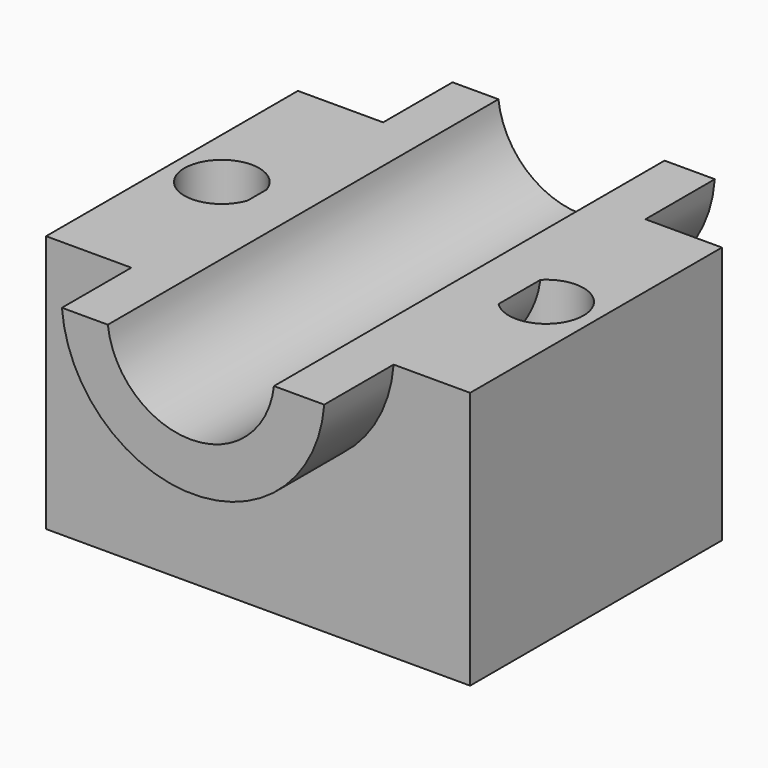
from build123d import *

# Parameters (mm, degrees)
F0_W     = 86.4731967449
F0_H     = 64.1862973571
F1_DEPTH = 52.578
F2_R     = 7.62
F3_DEPTH = 180.34
F5_DEPTH = 49.784
F7_DEPTH = 69.342


with BuildPart() as f1:
    # F0 (on Top) → F1 (new body)
    with BuildSketch(Plane.XY):
        Rectangle(F0_W, F0_H)
    extrude(amount=F1_DEPTH)

    # F2 (on Top) → F3 (cut)
    with BuildSketch(Plane.XY):
        with Locations((33.0765983725, 0)):
            Circle(F2_R)
        with Locations((-33.0765983725, 0)):
            Circle(F2_R)
    extrude(amount=F3_DEPTH, mode=Mode.SUBTRACT)

    # F4 (on Front) → F5 (join, symmetric)
    with BuildSketch(Plane.XZ):
        with BuildLine():
            ThreePointArc((17.383787781, 52.578), (0.4457375035, 37.4617067344), (-16.4923127741, 52.578))
            Line((-16.4923127741, 52.578), (-25.8528143167, 52.578))
            ThreePointArc((-25.8528143167, 52.578), (0.8914759383, 27.7956383617), (27.6357661933, 52.578))
            Line((27.6357661933, 52.578), (17.383787781, 52.578))
        make_face()
    extrude(amount=F5_DEPTH, both=True)

    # F7 (cut): a face of the model
    f7_faces = [f1.faces().sort_by_distance(p)[0] for p in [
        (0.4457375035, 32.0931486785, 46.2197735841),
    ]]
    extrude(f7_faces, amount=-F7_DEPTH, mode=Mode.SUBTRACT)


solid = f1.part
